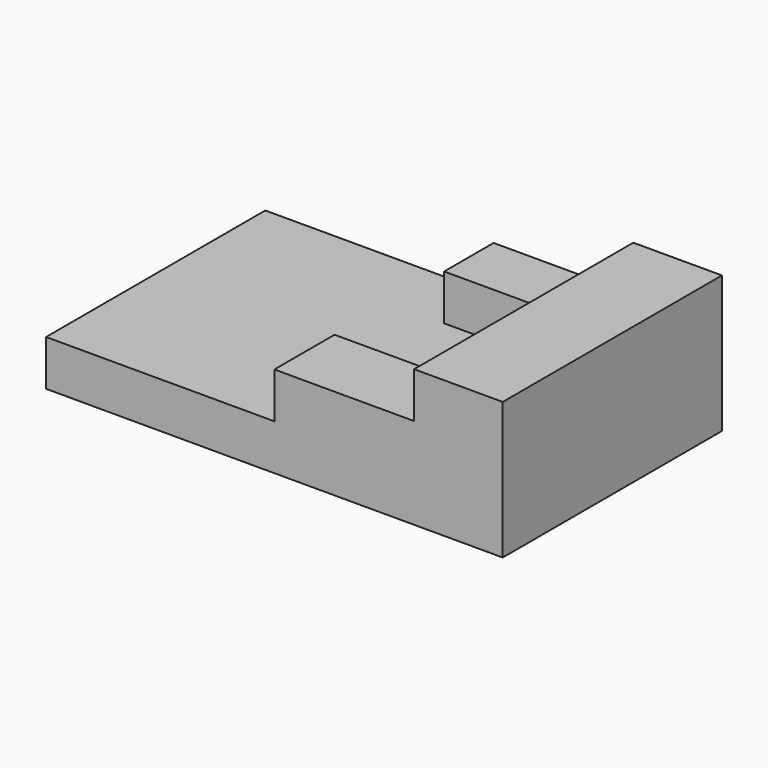
from build123d import *

# Parameters (mm, degrees)
F0_W     = 127
F0_H     = 76.2
F1_DEPTH = 12.7
F2_W     = 63.5
F2_H     = 76.2
F3_DEPTH = 12.7
F4_W     = 38.1
F4_H     = 38.1
F5_DEPTH = 12.7
F6_W     = 24.64416
F6_H     = 76.2
F7_DEPTH = 12.7


with BuildPart() as f1:
    # F0 (on Top) → F1 (new body)
    with BuildSketch(Plane.XY):
        Rectangle(F0_W, F0_H)
    extrude(amount=F1_DEPTH)

    # F2 (on face) → F3 (join)
    with BuildSketch(Plane.XY.offset(12.7)):
        with Locations((31.75, 0)):
            Rectangle(F2_W, F2_H)
    extrude(amount=F3_DEPTH)

    # F4 (on face) → F5 (cut)
    with BuildSketch(Plane.XY.offset(25.4)):
        with Locations((19.05, 1.858458)):
            Rectangle(F4_W, F4_H)
    extrude(amount=-F5_DEPTH, mode=Mode.SUBTRACT)

    # F6 (on face) → F7 (join)
    with BuildSketch(Plane.XY.offset(25.4)):
        with Locations((51.17792, 0)):
            Rectangle(F6_W, F6_H)
    extrude(amount=F7_DEPTH)


solid = f1.part
